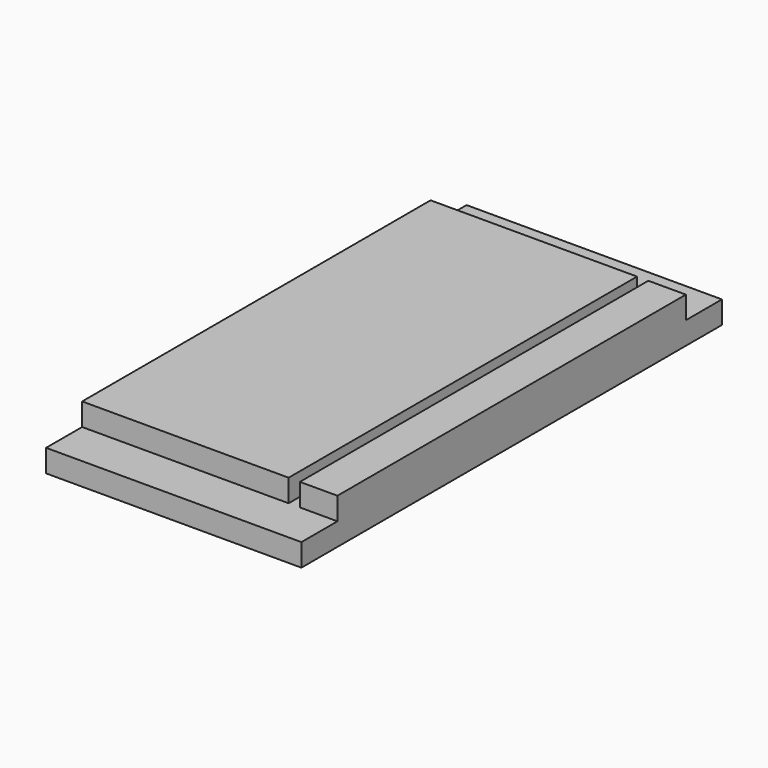
from build123d import *

# Parameters (mm, degrees)
F0_W     = 68
F0_H     = 12
F1_DEPTH = 140
F2_W     = 3
F2_H     = 6
F3_DEPTH = 140
F4_W     = 12
F4_H     = 6
F5_DEPTH = 70


with BuildPart() as f1:
    # F0 (on Front) → F1 (new body)
    with BuildSketch(Plane.XZ):
        Rectangle(F0_W, F0_H)
    extrude(amount=F1_DEPTH)

    # F2 (on face) → F3 (cut)
    with BuildSketch(Plane.XZ.offset(140)):
        with Locations((22.5, 3)):
            Rectangle(F2_W, F2_H)
    extrude(amount=-F3_DEPTH, mode=Mode.SUBTRACT)

    # F4 (on face) → F5 (cut)
    with BuildSketch(Plane(origin=(-34, 0, 0), x_dir=(0, -1, 0), z_dir=(-1, 0, 0))):
        with Locations((6, 3)):
            Rectangle(F4_W, F4_H)
        with Locations((134, 3)):
            Rectangle(F4_W, F4_H)
    extrude(amount=-F5_DEPTH, mode=Mode.SUBTRACT)


solid = f1.part
